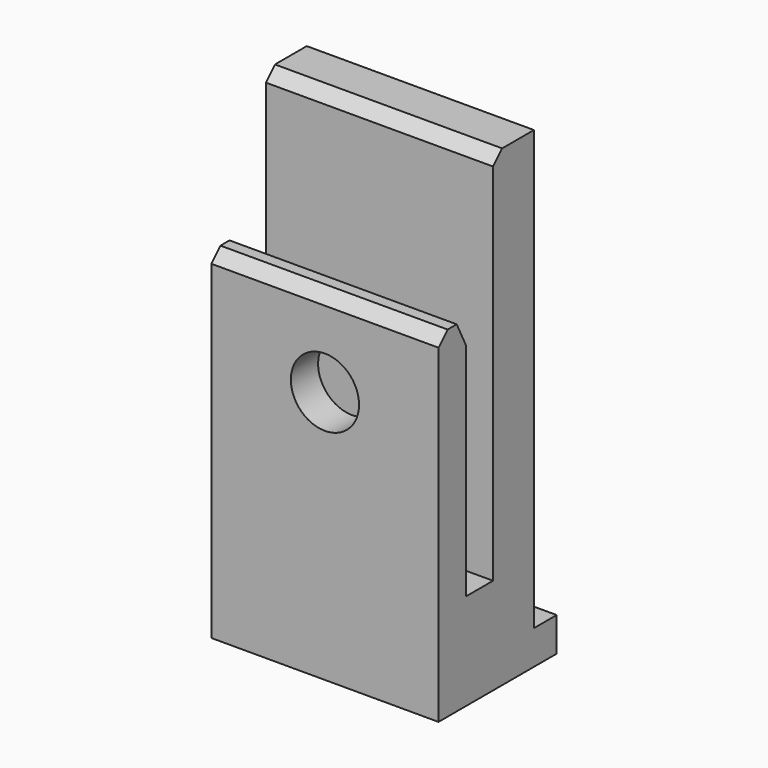
from build123d import *

# Parameters (mm, degrees)
CYLINDER009_R     = 3
CYLINDER009_DEPTH = 17
CYLINDER010_R     = 1.7
CYLINDER010_DEPTH = 17
CYLINDER011_R     = 2.9
CYLINDER011_DEPTH = 2
CHAMFER015_SIZE   = 1
BOX018_W          = 20
BOX018_H          = 6
BOX018_DEPTH      = 8.5
BOX017_W          = 20
BOX017_H          = 4.5
BOX017_DEPTH      = 41.6
BOX020_W          = 20
BOX020_H          = 13
BOX020_DEPTH      = 3
BOX019_W          = 20
BOX019_H          = 3
BOX019_DEPTH      = 30
CHAMFER016_SIZE2  = 2
CHAMFER016_SIZE   = 1
CHAMFER017_SIZE   = 1
CHAMFER018_SIZE   = 1


with BuildPart() as cylinder009:
    # Cylinder009 → Cylinder009 (new body)
    with BuildSketch(Plane(origin=(10, 3, 19.3), x_dir=(1, 0, 0), z_dir=(0, -1, 0))):
        Circle(CYLINDER009_R)
    extrude(amount=CYLINDER009_DEPTH)


with BuildPart() as cylinder010:
    # Cylinder010 → Cylinder010 (new body)
    with BuildSketch(Plane(origin=(10, 6, 19.3), x_dir=(1, 0, 0), z_dir=(0, -1, 0))):
        Circle(CYLINDER010_R)
    extrude(amount=CYLINDER010_DEPTH)


with BuildPart() as chamfer015:
    # Cylinder011 → Cylinder011 (new body)
    with BuildSketch(Plane(origin=(10, 5.5, 19.3), x_dir=(1, 0, 0), z_dir=(0, -1, 0))):
        Circle(CYLINDER011_R)
    extrude(amount=CYLINDER011_DEPTH)

    # Chamfer015
    chamfer015_edges = [chamfer015.edges().sort_by_distance(p)[0] for p in [
        (7.1, 5.5, 19.3),
    ]]
    chamfer(chamfer015_edges, length=CHAMFER015_SIZE)


with BuildPart() as cube018:
    # Box018 → Box018 (new body)
    with BuildSketch(Plane(origin=(0, -6, -3), x_dir=(1, 0, 0), z_dir=(0, 0, 1))):
        with Locations((10, 3)):
            Rectangle(BOX018_W, BOX018_H)
    extrude(amount=BOX018_DEPTH)


with BuildPart() as cube017:
    # Box017 → Box017 (new body)
    with BuildSketch(Plane.XY.offset(-3)):
        with Locations((10, 2.25)):
            Rectangle(BOX017_W, BOX017_H)
    extrude(amount=BOX017_DEPTH)


with BuildPart() as cube020:
    # Box020 → Box020 (new body)
    with BuildSketch(Plane(origin=(0, -6, -3), x_dir=(1, 0, 0), z_dir=(0, 0, 1))):
        with Locations((10, 6.5)):
            Rectangle(BOX020_W, BOX020_H)
    extrude(amount=BOX020_DEPTH)


with BuildPart() as clip_side_bottom_corner:
    # Box019 → Box019 (new body)
    with BuildSketch(Plane(origin=(0, -6, -3), x_dir=(1, 0, 0), z_dir=(0, 0, 1))):
        with Locations((10, 1.5)):
            Rectangle(BOX019_W, BOX019_H)
    extrude(amount=BOX019_DEPTH)

    # Fusion008: union Cube018, Cube017, Cube020
    add(cube018.part)
    add(cube017.part)
    add(cube020.part)

    # Chamfer016
    chamfer016_edges = [clip_side_bottom_corner.edges().sort_by_distance(p)[0] for p in [
        (10, -3, 27),
    ]]
    chamfer016_side = clip_side_bottom_corner.faces().sort_by_distance((10, -4.5, 27))[0]
    chamfer(chamfer016_edges, length=CHAMFER016_SIZE, length2=CHAMFER016_SIZE2, reference=chamfer016_side)

    # Chamfer017
    chamfer017_edges = [clip_side_bottom_corner.edges().sort_by_distance(p)[0] for p in [
        (10, 0, 38.6),
    ]]
    chamfer(chamfer017_edges, length=CHAMFER017_SIZE)

    # Fusion009: union Chamfer015
    add(chamfer015.part)

    # Cut008: cut Cylinder010
    add(cylinder010.part, mode=Mode.SUBTRACT)

    # Chamfer018
    chamfer018_edges = [clip_side_bottom_corner.edges().sort_by_distance(p)[0] for p in [
        (10, -6, 27),
    ]]
    chamfer(chamfer018_edges, length=CHAMFER018_SIZE)

    # Cut009: cut Cylinder009
    add(cylinder009.part, mode=Mode.SUBTRACT)


solid = clip_side_bottom_corner.part
